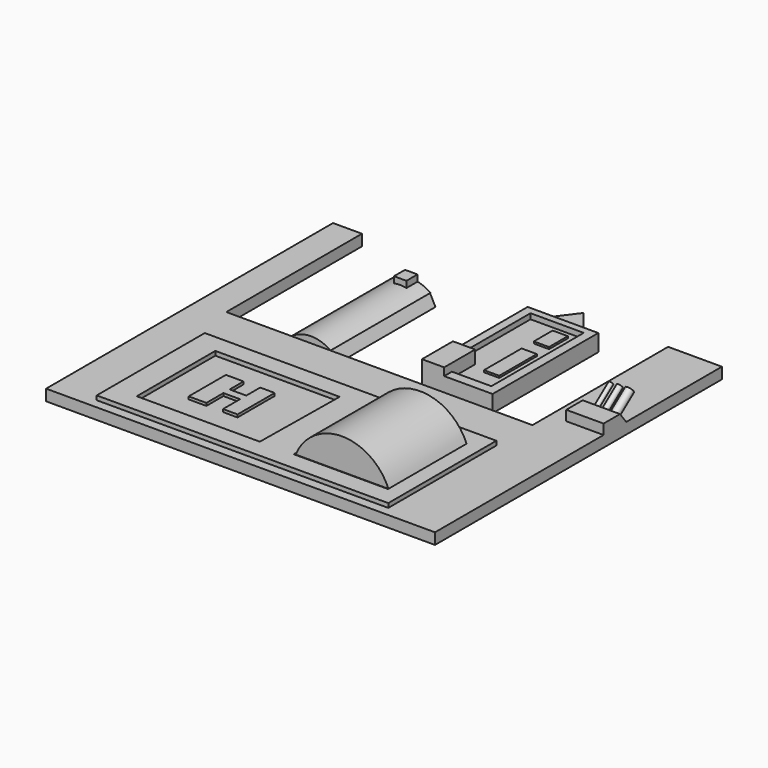
from build123d import *

# Parameters (mm, degrees)
F0_W      = 256.8816542625
F0_H      = 124.9005608261
F1_DEPTH  = 7.366
F2_W      = 62.3086728156
F2_H      = 64.857667312
F3_DEPTH  = 2.794
F5_DEPTH  = 1.778
F7_DEPTH  = 64.516
F8_W      = 35.5442613363
F8_H      = 7.366
F8_W_2    = 19.1174224019
F9_DEPTH  = 112.014
F10_W     = 46.6505549848
F10_H     = 87.2657001019
F11_DEPTH = 7.62
F12_W     = 10.051548481
F12_H     = 15.5342072248
F12_H_2   = 31.0684144497
F13_DEPTH = 1.27
F14_W     = 14.6683594212
F14_H     = 25.5857557058
F15_DEPTH = 8.636
F17_DEPTH = 3.556
F19_DEPTH = 7.366
F21_DEPTH = 82.55
F23_DEPTH = 82.804
F24_W     = 8.2358904183
F24_H     = 7.9047323432
F25_DEPTH = 9.144
F27_DEPTH = 24.638
F28_R     = 2.6783495987
F28_R_2   = 1.4282092452
F28_R_3   = 1.8729701821
F29_DEPTH = 15.494


with BuildPart() as f1:
    # F0 (on Top) → F1 (new body)
    with BuildSketch(Plane.XY):
        with Locations((-12.7449482679, -4.8147607595)):
            Rectangle(F0_W, F0_H)
    extrude(amount=F1_DEPTH)

    # F2 (on face) → F3 (join)
    with BuildSketch(Plane.XY.offset(7.366)):
        Polygon((-112.7220466733, -61.0341802239), (-13.8778332621, -61.0341802239), (79.8683986068, -61.0341802239), (79.8683986068, 28.180513531), (-13.8778332621, 28.180513531), (-112.7220466733, 28.180513531), align=None)
        Polygon((-96.0119962692, 16.0020012408), (-13.8778332621, 16.0020012408), (-14.7274956107, -48.8556660712), (-96.0119962692, -48.8556660712), align=None, mode=Mode.SUBTRACT)
        with Locations((38.8013180345, -16.4268324152)):
            Rectangle(F2_W, F2_H, mode=Mode.SUBTRACT)
    extrude(amount=F3_DEPTH)

    # F4 (on face) → F5 (join)
    with BuildSketch(Plane.XY.offset(7.366)):
        Polygon((-64.562484622, 0), (-76.2300118804, 0), (-76.2300118804, -30.713044107), (-64.562484622, -30.713044107), (-64.562484622, -16.6433826089), (-53.5812862217, -16.6433826089), (-53.5812862217, -30.713044107), (-43.9727380872, -30.713044107), (-43.9727380872, 0), (-53.5812862217, 0), (-53.5812862217, -11.4959450439), (-64.562484622, -11.4959450439), align=None)
    extrude(amount=F5_DEPTH)

    # F8 (on face) → F9 (join)
    with BuildSketch(Plane(origin=(0, 57.6355196536, 0), x_dir=(-1, 0, 0), z_dir=(0, 1, 0))):
        with Locations((-97.9237481952, 3.683)):
            Rectangle(F8_W, F8_H)
        with Locations((131.6270641983, 3.683)):
            Rectangle(F8_W_2, F8_H)
    extrude(amount=F9_DEPTH)

    # F26 (on face) → F27 (join)
    with BuildSketch(Plane.YZ.offset(115.6958788633)):
        Polygon((71.9147920609, 0), (96.2718203664, 0), (85.5094119906, 14.0194511041), (71.9147920609, 14.0194511041), align=None)
    extrude(amount=-F27_DEPTH)

    # F28 (on face) → F29 (join)
    with BuildSketch(Plane(origin=(0, 60.5739241185, 46.5012006136), x_dir=(-1, 0, 0), z_dir=(0, 0.7932192819, 0.6089360974))):
        with Locations((-110.4562953115, -44.5198006928)):
            Circle(F28_R)
        with Locations((-97.9945585132, -44.8768548667)):
            Circle(F28_R_2)
        with Locations((-103.9422005415, -44.5198006928)):
            Circle(F28_R_3)
    extrude(amount=F29_DEPTH)


with BuildPart() as f7:
    # F6 (on face) → F7 (new body)
    with BuildSketch(Plane.XZ.offset(-16.0020012408)):
        with BuildLine():
            Line((8.6464575235, 10.16), (69.9556544423, 10.16))
            ThreePointArc((69.9556544423, 10.16), (39.3010559829, 30.7393329186), (8.6464575235, 10.16))
        make_face()
    extrude(amount=F7_DEPTH)


with BuildPart() as f11:
    # F10 (on face) → F11 (new body)
    with BuildSketch(Plane.XY.offset(7.366)):
        with Locations((23.3252774924, 110.2322638035)):
            Rectangle(F10_W, F10_H)
    extrude(amount=-F11_DEPTH)

    # F12 (on face) → F13 (join)
    with BuildSketch(Plane.XY.offset(7.366)):
        with Locations((28.8319028914, 136.9602456689)):
            Rectangle(F12_W, F12_H)
        with Locations((28.8319028914, 103.6073789001)):
            Rectangle(F12_W, F12_H_2)
    extrude(amount=F13_DEPTH)

    # F14 (on face) → F15 (join)
    with BuildSketch(Plane.XY.offset(7.366)):
        with Locations((7.3341797106, 79.3922916055)):
            Rectangle(F14_W, F14_H)
    extrude(amount=F15_DEPTH)

    # F16 (on face) → F17 (join)
    with BuildSketch(Plane.XY.offset(7.366)):
        Polygon((0, 153.8651138544), (0, 92.1851694584), (5.5305897258, 92.1851694584), (5.5305897258, 149.2962241173), (40.711004287, 149.2962241173), (40.711004287, 72.9958489537), (14.6683594212, 72.9958489537), (14.6683594212, 66.5994137526), (46.6505549848, 66.5994137526), (46.6505549848, 153.8651138544), align=None)
    extrude(amount=F17_DEPTH)

    # F18 (on face) → F19 (join)
    with BuildSketch(Plane.XY.offset(7.366)):
        Polygon((22.3949514329, 171.8819737434), (5.5305897258, 149.2962241173), (40.711004287, 149.2962241173), align=None)
    extrude(amount=-F19_DEPTH)


with BuildPart() as f21:
    # F20 (on face) → F21 (new body)
    with BuildSketch(Plane(origin=(0, 57.6355196536, 0), x_dir=(-1, 0, 0), z_dir=(0, 1, 0))):
        with BuildLine():
            Line((53.2296635239, 7.366), (78.9837650926, 7.366))
            ThreePointArc((78.9837650926, 7.366), (66.1067143083, 11.5081994322), (53.2296635239, 7.366))
        make_face()
    extrude(amount=F21_DEPTH)


with BuildPart() as f23:
    # F22 (on face) → F23 (new body)
    with BuildSketch(Plane(origin=(0, 57.6355196536, 0), x_dir=(-1, 0, 0), z_dir=(0, 1, 0))):
        Polygon((76.9163444638, 7.366), (53.9244525135, 7.366), (50.1496680081, 0), (83.0932632089, 0), align=None)
    extrude(amount=F23_DEPTH)


with BuildPart() as f25:
    # F24 (on face) → F25 (new body)
    with BuildSketch(Plane(origin=(0, 140.1855196536, 0), x_dir=(-1, 0, 0), z_dir=(0, 1, 0))):
        with Locations((65.9351404756, 11.3183661716)):
            Rectangle(F24_W, F24_H)
    extrude(amount=-F25_DEPTH)


solid = Compound([f1.part, f7.part, f11.part, f21.part, f23.part, f25.part])
